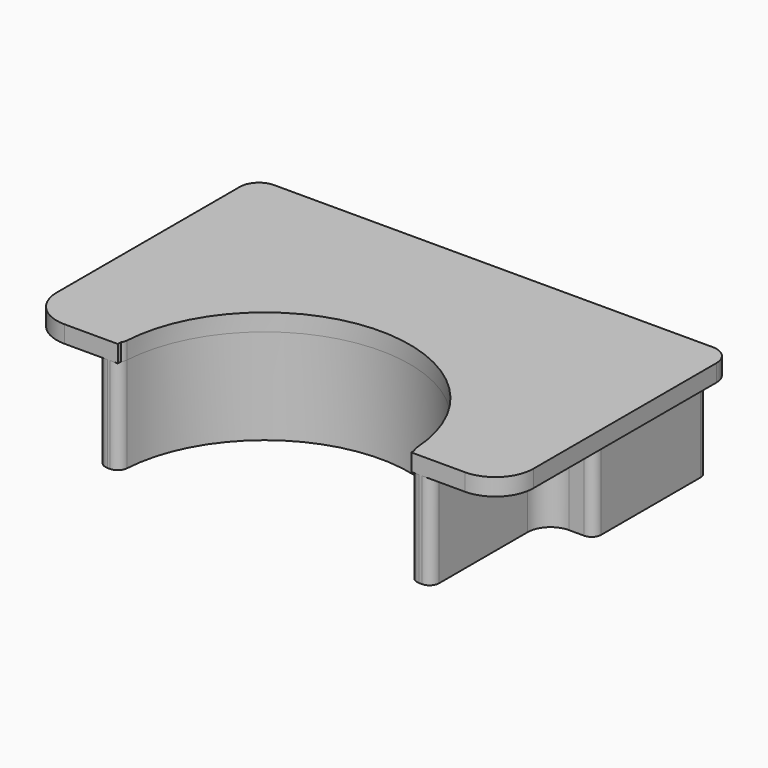
from build123d import *

# Parameters (mm, degrees)
F0_W      = 127
F0_H      = 76.2
F1_DEPTH  = 4.572
F2_W      = 114.3
F2_H      = 76.2
F3_DEPTH  = 25.4
F4_W      = 63.5
F4_H      = 25.4
F4_W_2    = 12.7
F4_H_2    = 38.1
F4_R      = 38.6678322827
F5_DEPTH  = 25.4
F6_R      = 10.16
F7_R      = 2.54
F8_R      = 6.1321024484
F9_R      = 5.08
F10_R     = 10.16
F12_DEPTH = 5.08


with BuildPart() as f1:
    # F0 (on Top) → F1 (new body)
    with BuildSketch(Plane.XY):
        Rectangle(F0_W, F0_H)
    extrude(amount=F1_DEPTH)

    # F2 (on face) → F3 (join)
    with BuildSketch(Plane(origin=(0, 0, 0), x_dir=(1, 0, 0), z_dir=(0, 0, -1))):
        Rectangle(F2_W, F2_H)
    extrude(amount=F3_DEPTH)

    # F4 (on face) → F5 (cut)
    with BuildSketch(Plane(origin=(0, 0, -25.4), x_dir=(1, 0, 0), z_dir=(0, 0, -1))):
        with Locations((0, -25.4)):
            Rectangle(F4_W, F4_H)
        with Locations((-50.8, 19.05)):
            Rectangle(F4_W_2, F4_H_2)
        with Locations((50.8, 19.05)):
            Rectangle(F4_W_2, F4_H_2)
        with Locations((0, 38.1)):
            Circle(F4_R)
    extrude(amount=-F5_DEPTH, mode=Mode.SUBTRACT)

    # F6
    f6_edges = [f1.edges().sort_by_distance(p)[0] for p in [
        (-63.5, -38.1, 2.286),
    ]]
    fillet(f6_edges, radius=F6_R)

    # F7
    f7_edges = [f1.edges().sort_by_distance(p)[0] for p in [
        (-44.45, -38.1, -12.7),
        (38.667832, -38.1, -12.7),
        (-38.667832, -38.1, -12.7),
        (44.45, -38.1, -12.7),
        (57.15, 0, -12.7),
        (-57.15, 0, -12.7),
        (-31.75, 38.1, -12.7),
        (-57.15, 38.1, -12.7),
        (57.15, 38.1, -12.7),
        (31.75, 38.1, -12.7),
    ]]
    fillet(f7_edges, radius=F7_R)

    # F8
    f8_edges = [f1.edges().sort_by_distance(p)[0] for p in [
        (-44.45, 0, -12.7),
        (44.45, 0, -12.7),
        (-31.75, 12.7, -12.7),
        (31.75, 12.7, -12.7),
    ]]
    fillet(f8_edges, radius=F8_R)

    # F9
    f9_edges = [f1.edges().sort_by_distance(p)[0] for p in [
        (-63.5, 38.1, 2.286),
        (63.5, 38.1, 2.286),
    ]]
    fillet(f9_edges, radius=F9_R)

    # F10
    f10_edges = [f1.edges().sort_by_distance(p)[0] for p in [
        (63.5, -38.1, 2.286),
    ]]
    fillet(f10_edges, radius=F10_R)

    # F11 (on face) → F12 (cut)
    with BuildSketch(Plane(origin=(0, 0, 0), x_dir=(1, 0, 0), z_dir=(0, 0, -1))):
        with BuildLine():
            ThreePointArc((39.08503897, 37.0672740206), (39.0952697519, 37.5835919656), (39.0986802109, 38.1))
            Line((39.0986802109, 38.1), (38.6678322827, 38.1))
            Line((38.6678322827, 38.1), (-38.6678322827, 38.1))
            Line((-38.6678322827, 38.1), (-39.0986802109, 38.1))
            ThreePointArc((-39.0986802109, 38.1), (-39.0952697519, 37.5835919656), (-39.08503897, 37.0672740206))
            ThreePointArc((-39.08503897, 37.0672740206), (-38.7421543292, 36.4273480296), (-38.5943063027, 35.7165624699))
            ThreePointArc((-38.5943063027, 35.7165624699), (0, -0.5678322827), (38.5943063027, 35.7165624699))
            ThreePointArc((38.5943063027, 35.7165624699), (38.7421543292, 36.4273480296), (39.08503897, 37.0672740206))
        make_face()
    extrude(amount=-F12_DEPTH, mode=Mode.SUBTRACT)


solid = f1.part
